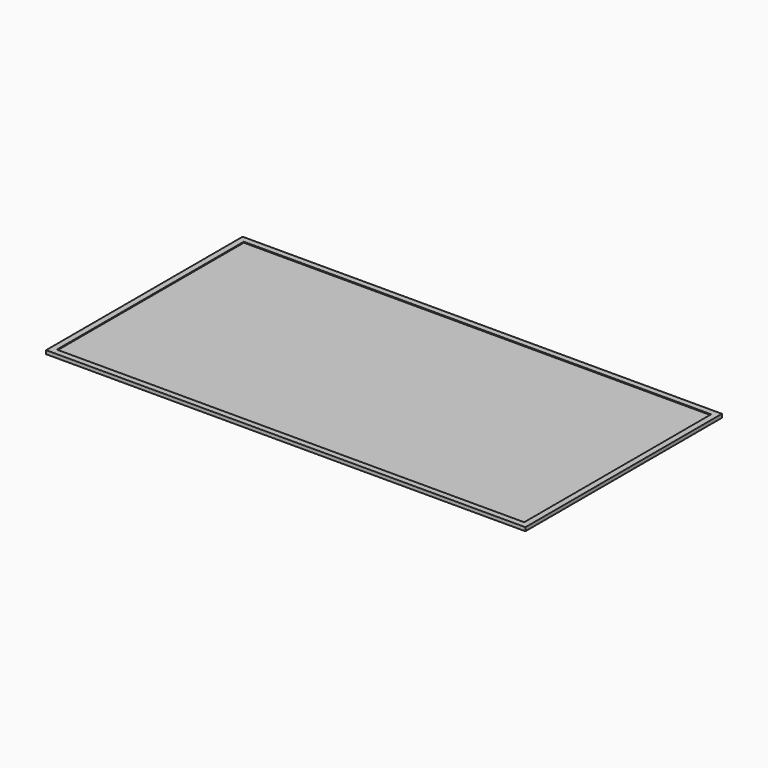
from build123d import *

# Parameters (mm, degrees)
F0_W     = 20
F0_H     = 12
F4_W     = 1560
F4_H     = 780
F5_DEPTH = 3


with BuildPart() as f2:
    # F2: sweep along a path in F1
    with BuildLine(Plane.XY) as f2_path:
        Line((0, 0), (0, 820))
        Line((0, 820), (1600, 820))
        Line((1600, 820), (1600, 0))
        Line((1600, 0), (0, 0))
    # F0 (on Front) → F2 (sweep)
    with BuildSketch(Plane.XZ):
        with Locations((10, 6)):
            Rectangle(F0_W, F0_H)
    sweep(path=f2_path.line, transition=Transition.RIGHT)

    # F4 (on offset) → F5 (join, symmetric)
    with BuildSketch(Plane.XY.offset(6)):
        with Locations((799.9060253799, 410.6086945534)):
            Rectangle(F4_W, F4_H)
    extrude(amount=F5_DEPTH, both=True)


solid = f2.part
